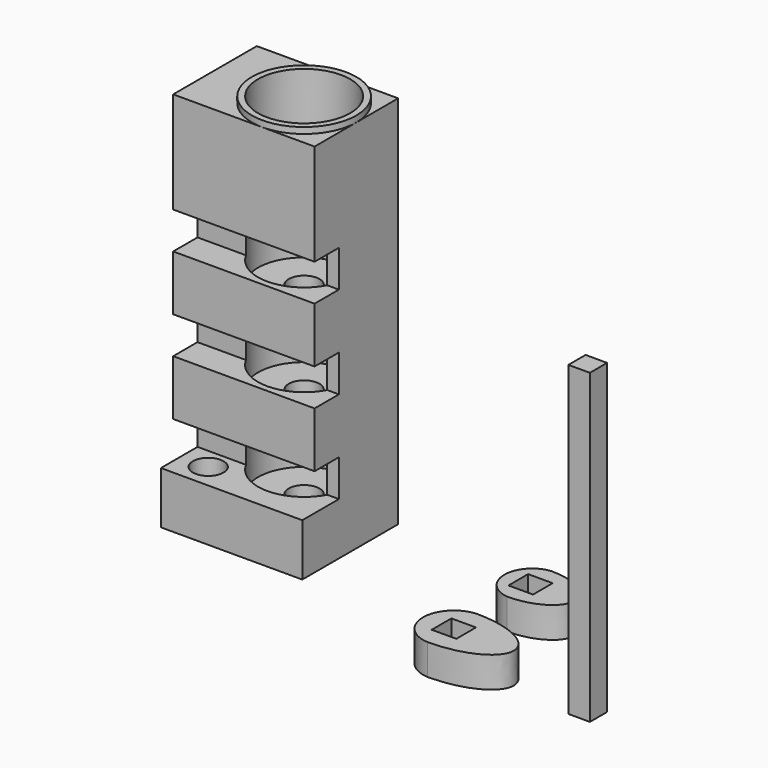
from build123d import *

# Parameters (mm, degrees)
F0_W           = 4
F0_H           = 4
F1_DEPTH       = 5
F2_W           = 3.5
F2_H           = 3.5
F3_DEPTH       = 50
F6_DEPTH       = 25
F7_R           = 7.5
F8_DEPTH       = 5
F9_R           = 2.5
F10_DEPTH      = 5.0010001
F10_DEPTH_BACK = 45.001
F11_R          = 8.5
F11_R_2        = 7.5
F12_DEPTH      = 7
F12_DEPTH_BACK = 5
F14_DEPTH      = 11
F16_DEPTH      = 50
F17_DEPTH      = 50
F19_DEPTH      = 17
F18_W          = 4.9475478008
F18_H          = 6
F20_DEPTH      = 25
F21_R          = 2.5
F22_DEPTH      = 62.001
F24_W          = 40.9381370991
F24_H          = 29.6913962811
F24_W_2        = 36.4394430071
F24_H_2        = 22.0436118543
F25_DEPTH      = 25
F26_DEPTH      = 5
F28_DEPTH      = 6
F30_DEPTH      = 2.5
F31_DEPTH      = 8.5010001


with BuildPart() as f1:
    # F0 (on Top) → F1 (new body)
    with BuildSketch(Plane.XY):
        with BuildLine():
            ThreePointArc((0, 4.9933729626), (-4.742654986, 0), (0, -4.9933729626))
            add(Edge.make_bspline(
                [(0, -4.9933729626), (10, -4.9933729626), (10, 0), (10, 4.9933729626), (0, 4.9933729626)],
                knots=[4.7123889804, 4.7123889804, 4.7123889804, 6.2831853072, 6.2831853072, 7.853981634, 7.853981634, 7.853981634], degree=2, weights=[1, 0.7071067812, 1, 0.7071067812, 1]))
        make_face()
        with Locations((0.257345014, 0)):
            Rectangle(F0_W, F0_H, mode=Mode.SUBTRACT)
    extrude(amount=F1_DEPTH)


with BuildPart() as f3:
    # F2 (on Top) → F3 (new body)
    with BuildSketch(Plane.XY):
        with Locations((22.040861788, 0)):
            Rectangle(F2_W, F2_H)
    extrude(amount=F3_DEPTH)


with BuildPart() as f4_1:
    # F4: copy of F1
    add(f1.part.moved(Location((0, 15.6, 0))))

    # F5 (on face) → F6 (cut)
    with BuildSketch(Plane.XY.offset(5)):
        with BuildLine():
            add(Edge.make_bspline(
                [(0, 11.1), (10, 11.1), (10, 15.6)],
                knots=[4.7123889804, 4.7123889804, 4.7123889804, 6.2831853072, 6.2831853072, 6.2831853072], degree=2, weights=[1, 0.7071067812, 1]))
            add(Edge.make_bspline(
                [(10, 15.6), (10, 20.1), (0, 20.1)],
                knots=[0, 0, 0, 1.5707963268, 1.5707963268, 1.5707963268], degree=2, weights=[1, 0.7071067812, 1]))
            add(Edge.make_bspline(
                [(0, 11.1), (7.5, 11.1), (7.5, 15.6), (7.5, 20.1), (0, 20.1)],
                knots=[4.7123889804, 4.7123889804, 4.7123889804, 6.2831853072, 6.2831853072, 7.853981634, 7.853981634, 7.853981634], degree=2, weights=[1, 0.7071067812, 1, 0.7071067812, 1]))
        make_face()
        with BuildLine():
            add(Edge.make_bspline(
                [(10, 15.6), (10, 20.1), (0, 20.1)],
                knots=[0, 0, 0, 1.5707963268, 1.5707963268, 1.5707963268], degree=2, weights=[1, 0.7071067812, 1]))
            add(Edge.make_bspline(
                [(10, 15.6), (10, 20.5933729626), (0, 20.5933729626)],
                knots=[6.2831853072, 6.2831853072, 6.2831853072, 7.853981634, 7.853981634, 7.853981634], degree=2, weights=[1, 0.7071067812, 1]))
            ThreePointArc((0, 20.5933729626), (-1.0943150122, 20.4138358066), (-2.1221413846, 19.9975043466))
            add(Edge.make_bspline(
                [(0, 20.1), (-1.0732937978, 20.1), (-2.1221413846, 19.9975043466)],
                knots=[1.5707963268, 1.5707963268, 1.5707963268, 1.7846364763, 1.7846364763, 1.7846364763], degree=2, weights=[1, 0.9942894921, 1]))
        make_face()
        with BuildLine():
            add(Edge.make_bspline(
                [(0, 10.6066270374), (10, 10.6066270374), (10, 15.6)],
                knots=[4.7123889804, 4.7123889804, 4.7123889804, 6.2831853072, 6.2831853072, 6.2831853072], degree=2, weights=[1, 0.7071067812, 1]))
            add(Edge.make_bspline(
                [(0, 11.1), (10, 11.1), (10, 15.6)],
                knots=[4.7123889804, 4.7123889804, 4.7123889804, 6.2831853072, 6.2831853072, 6.2831853072], degree=2, weights=[1, 0.7071067812, 1]))
            add(Edge.make_bspline(
                [(-2.1221413846, 11.2024956534), (-1.0732937978, 11.1), (0, 11.1)],
                knots=[4.4985488309, 4.4985488309, 4.4985488309, 4.7123889804, 4.7123889804, 4.7123889804], degree=2, weights=[1, 0.9942894921, 1]))
            ThreePointArc((-2.1221413846, 11.2024956534), (-1.0943150122, 10.7861641934), (0, 10.6066270374))
        make_face()
        with BuildLine():
            ThreePointArc((0, 11.1), (-3.9959013346, 15.6), (0, 20.1))
            add(Edge.make_bspline(
                [(0, 20.1), (-1.0732937978, 20.1), (-2.1221413846, 19.9975043466)],
                knots=[1.5707963268, 1.5707963268, 1.5707963268, 1.7846364763, 1.7846364763, 1.7846364763], degree=2, weights=[1, 0.9942894921, 1]))
            ThreePointArc((-2.1221413846, 19.9975043466), (-4.742654986, 15.6), (-2.1221413846, 11.2024956534))
            add(Edge.make_bspline(
                [(-2.1221413846, 11.2024956534), (-1.0732937978, 11.1), (0, 11.1)],
                knots=[4.4985488309, 4.4985488309, 4.4985488309, 4.7123889804, 4.7123889804, 4.7123889804], degree=2, weights=[1, 0.9942894921, 1]))
        make_face()
    extrude(amount=-F6_DEPTH, mode=Mode.SUBTRACT)


with BuildPart() as f8:
    # F7 (on Top) → F8 (new body)
    with BuildSketch(Plane.XY):
        with Locations((-37.7020835876, 17.0017145574)):
            Circle(F7_R)
    extrude(amount=F8_DEPTH)

    # F9 (on face) → F10 (cut, two sides)
    with BuildSketch(Plane.XY.offset(5)) as f10_sk:
        with Locations((-37.7020835876, 17.0017145574)):
            Circle(F9_R)
    extrude(amount=-F10_DEPTH, mode=Mode.SUBTRACT)
    extrude(f10_sk.sketch, amount=F10_DEPTH_BACK, mode=Mode.SUBTRACT)

    # F11 (on face) → F12 (join, two sides)
    with BuildSketch(Plane.XY.offset(5)) as f12_sk:
        with Locations((-37.7020835876, 17.0017145574)):
            Circle(F11_R)
        with Locations((-37.7020835876, 17.0017145574)):
            Circle(F11_R_2, mode=Mode.SUBTRACT)
    extrude(amount=F12_DEPTH)
    extrude(f12_sk.sketch, amount=-F12_DEPTH_BACK)

    # F13 (on face) → F14 (join)
    with BuildSketch(Plane(origin=(0, 0, 0), x_dir=(1, 0, 0), z_dir=(0, 0, -1))):
        with BuildLine():
            Line((-37.7020835876, -25.5017145574), (-29.2020835876, -25.5017145574))
            Line((-29.2020835876, -25.5017145574), (-29.2020835876, -17.0017145574))
            ThreePointArc((-29.2020835876, -17.0017145574), (-31.6916759476, -23.0121221975), (-37.7020835876, -25.5017145574))
        make_face()
        with BuildLine():
            Line((-46.2020835876, -25.5017145574), (-37.7020835876, -25.5017145574))
            ThreePointArc((-37.7020835876, -25.5017145574), (-43.7124912277, -23.0121221975), (-46.2020835876, -17.0017145574))
            Line((-46.2020835876, -17.0017145574), (-46.2020835876, -25.5017145574))
        make_face()
        with BuildLine():
            ThreePointArc((-37.7020835876, -8.5017145574), (-31.6916759476, -10.9913069173), (-29.2020835876, -17.0017145574))
            Line((-29.2020835876, -17.0017145574), (-29.2020835876, -8.5017145574))
            Line((-29.2020835876, -8.5017145574), (-37.7020835876, -8.5017145574))
        make_face()
        with BuildLine():
            Line((-46.2020835876, -8.5017145574), (-46.2020835876, -17.0017145574))
            ThreePointArc((-46.2020835876, -17.0017145574), (-43.7124912277, -10.9913069173), (-37.7020835876, -8.5017145574))
            Line((-37.7020835876, -8.5017145574), (-46.2020835876, -8.5017145574))
        make_face()
    extrude(amount=-F14_DEPTH)

    # F16 (add): a face of the model
    f16_faces = [f8.faces().sort_by_distance(p)[0] for p in [
        (-45.961667282, 17.0017145574, 12),
    ]]
    extrude(f16_faces, amount=F16_DEPTH)

    # F17 (add): faces of the model
    f17_faces = [f8.faces().sort_by_distance(p)[0] for p in [
        (-44.3034561066, 23.6030870764, 11),
        (-44.3034561066, 10.4003420384, 11),
        (-31.1007110687, 10.4003420384, 11),
        (-31.1007110687, 23.6030870764, 11),
    ]]
    extrude(f17_faces, amount=F17_DEPTH)

    # F18 (on face) → F19 (join)
    with BuildSketch(Plane(origin=(-46.2020835876, 0, 0), x_dir=(0, -1, 0), z_dir=(-1, 0, 0))):
        Polygon((-13.4492623582, 18), (-8.5017145574, 18), (-8.5017145574, 20), (-13.4492623582, 20), (-25.5017145574, 20), (-25.5017145574, 18), align=None)
        Polygon((-13.4492623582, 48), (-8.5017145574, 48), (-8.5017145574, 50), (-25.5017145574, 50), (-25.5017145574, 48), align=None)
        Polygon((-13.4492623582, 33), (-8.5017145574, 33), (-8.5017145574, 35), (-13.4492623582, 35), (-25.5017145574, 35), (-25.5017145574, 33), align=None)
    extrude(amount=-F19_DEPTH)

    # F18 (on face) → F20 (cut)
    with BuildSketch(Plane(origin=(-46.2020835876, 0, 0), x_dir=(0, -1, 0), z_dir=(-1, 0, 0))):
        with Locations((-10.9754884578, 41.5)):
            Rectangle(F18_W, F18_H)
        with Locations((-10.9754884578, 26.5)):
            Rectangle(F18_W, F18_H)
        with Locations((-10.9754884578, 11.5)):
            Rectangle(F18_W, F18_H)
    extrude(amount=-F20_DEPTH, mode=Mode.SUBTRACT)

    # F21 (on face) → F22 (cut, through all)
    with BuildSketch(Plane(origin=(0, 0, 0), x_dir=(1, 0, 0), z_dir=(0, 0, -1))):
        with Locations((-37.7020835876, -17.0017145574)):
            Circle(F21_R)
    extrude(amount=-F22_DEPTH, mode=Mode.SUBTRACT)


with BuildPart() as f23_1:
    # F23: copy of F8
    add(f8.part.moved(Location((0, 0, -75))))

    # F24 (on face) → F25 (cut)
    with BuildSketch(Plane.XZ.offset(-8.5017145574)):
        with Locations((-40.3531985357, -23.1816293672)):
            Rectangle(F24_W, F24_H)
        with Locations((-38.1038514897, -68.3935303241)):
            Rectangle(F24_W_2, F24_H_2)
    extrude(amount=-F25_DEPTH, mode=Mode.SUBTRACT)

    # F26 (add): a face of the model
    f26_faces = [f23_1.faces().sort_by_distance(p)[0] for p in [
        (-46.2020835876, 17.5996708125, -47.6200983876),
    ]]
    extrude(f26_faces, amount=F26_DEPTH)


with BuildPart() as f8_1:
    add(f8.part)

    # F28 (add): a face of the model
    f28_faces = [f8_1.faces().sort_by_distance(p)[0] for p in [
        (-46.2020835876, 17.5678563035, 30.8757852671),
    ]]
    extrude(f28_faces, amount=F28_DEPTH)

    # F30 (add): a face of the model
    f30_faces = [f8_1.faces().sort_by_distance(p)[0] for p in [
        (-40.7020835876, 8.5017145574, 4.25),
    ]]
    extrude(f30_faces, amount=F30_DEPTH)

    # F29 (on face) → F31 (cut, through all)
    with BuildSketch(Plane.XY.offset(8.5)):
        with BuildLine():
            ThreePointArc((-45.7020835876, 8.5017145574), (-45.3303753425, 9.2111451424), (-45.2020835876, 10.0017145574))
            ThreePointArc((-45.2020835876, 10.0017145574), (-48.4926530027, 12.3734228025), (-49.7020835876, 8.5017145574))
            Line((-49.7020835876, 8.5017145574), (-45.7020835876, 8.5017145574))
        make_face()
        with BuildLine():
            Line((-45.7020835876, 8.5017145574), (-49.7020835876, 8.5017145574))
            ThreePointArc((-49.7020835876, 8.5017145574), (-47.7020835876, 7.5017145574), (-45.7020835876, 8.5017145574))
        make_face()
    extrude(amount=-F31_DEPTH, mode=Mode.SUBTRACT)


solid = Compound([f1.part, f3.part, f4_1.part, f8_1.part])
